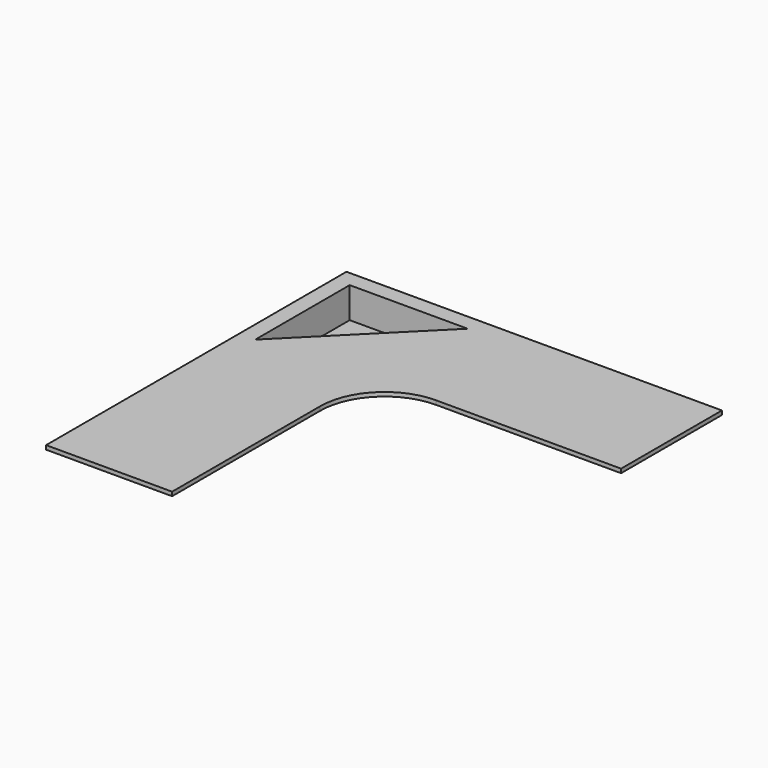
from build123d import *

# Parameters (mm, degrees)
F1_DEPTH = 19.05
F2_DEPTH = 152.4
F3_DEPTH = 152.4
F4_DEPTH = 146.05


with BuildPart() as f1:
    # F0 (on Top) → F1 (new body)
    with BuildSketch(Plane.XY):
        with BuildLine():
            Line((-596.9, 871.074308), (-596.9, -906.925692))
            Line((-596.9, -906.925692), (0, -906.925692))
            Line((0, -906.925692), (0, -30.625692))
            ThreePointArc((0, -30.625692), (89.273853, 184.900455), (304.8, 274.174308))
            Line((304.8, 274.174308), (1181.1, 274.174308))
            Line((1181.1, 274.174308), (1181.1, 871.074308))
            Line((1181.1, 871.074308), (-596.9, 871.074308))
        make_face()
        Polygon((-539.75, 190.08354), (-539.75, 813.924308), (84.090768, 813.924308), align=None, mode=Mode.SUBTRACT)
        Polygon((-520.7, 794.874308), (-520.7, 236.074308), (38.1, 794.874308), align=None)
        Polygon((84.090768, 813.924308), (-539.75, 813.924308), (-539.75, 190.08354), align=None)
        Polygon((38.1, 794.874308), (-520.7, 236.074308), (-520.7, 794.874308), align=None, mode=Mode.SUBTRACT)
    extrude(amount=-F1_DEPTH)

    # F0 (on Top) → F2 (join)
    with BuildSketch(Plane.XY):
        Polygon((84.090768, 813.924308), (-539.75, 813.924308), (-539.75, 190.08354), align=None)
        Polygon((38.1, 794.874308), (-520.7, 236.074308), (-520.7, 794.874308), align=None, mode=Mode.SUBTRACT)
    extrude(amount=-F2_DEPTH)

    # F0 (on Top) → F3 (join)
    with BuildSketch(Plane.XY):
        Polygon((-520.7, 794.874308), (-520.7, 236.074308), (38.1, 794.874308), align=None)
    extrude(amount=-F3_DEPTH)

    # F0 (on Top) → F4 (cut)
    with BuildSketch(Plane.XY):
        Polygon((-520.7, 794.874308), (-520.7, 236.074308), (38.1, 794.874308), align=None)
    extrude(amount=-F4_DEPTH, mode=Mode.SUBTRACT)


solid = f1.part
